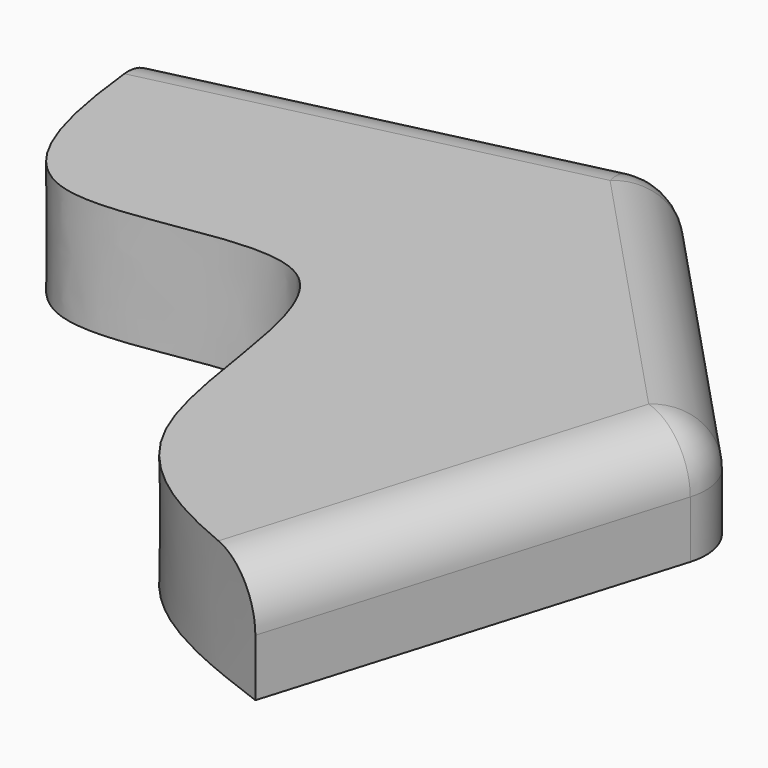
from build123d import *

# Parameters (mm, degrees)
F1_DEPTH = 10
F2_R     = 5


with BuildPart() as f1:
    # F0 (on Top) → F1 (new body)
    with BuildSketch(Plane.XY):
        with BuildLine():
            Line((-89.1454590492, 29.5676813811), (-127.0284729071, 20.6701940507))
            add(Edge.make_bspline(
                [(-127.0284729071, 20.6701940507), (-126.1771964504, 11.341777819), (-124.5039244495, -6.994189975), (-92.7519872862, 8.2636051601), (-96.1752718796, -27.6178091211), (-81.0772659553, -33.2893484208), (-73.7345589332, -36.0476233646)],
                knots=[0, 0, 0, 0, 0.2487050848, 0.4888555905, 0.7514119637, 1, 1, 1, 1], degree=3))
            Line((-73.7345589332, -36.0476233646), (-62.4985020623, 1.2087726734))
            Line((-62.4985020623, 1.2087726734), (-89.1454590492, 29.5676813811))
        make_face()
    extrude(amount=F1_DEPTH)

    # F2
    f2_edges = [f1.edges().sort_by_distance(p)[0] for p in [
        (-68.11653, -17.419425, 10),
        (-75.821981, 15.388227, 10),
        (-108.086966, 25.118938, 10),
        (-62.498502, 1.208773, 5),
        (-89.145459, 29.567681, 5),
    ]]
    fillet(f2_edges, radius=F2_R)


solid = f1.part
